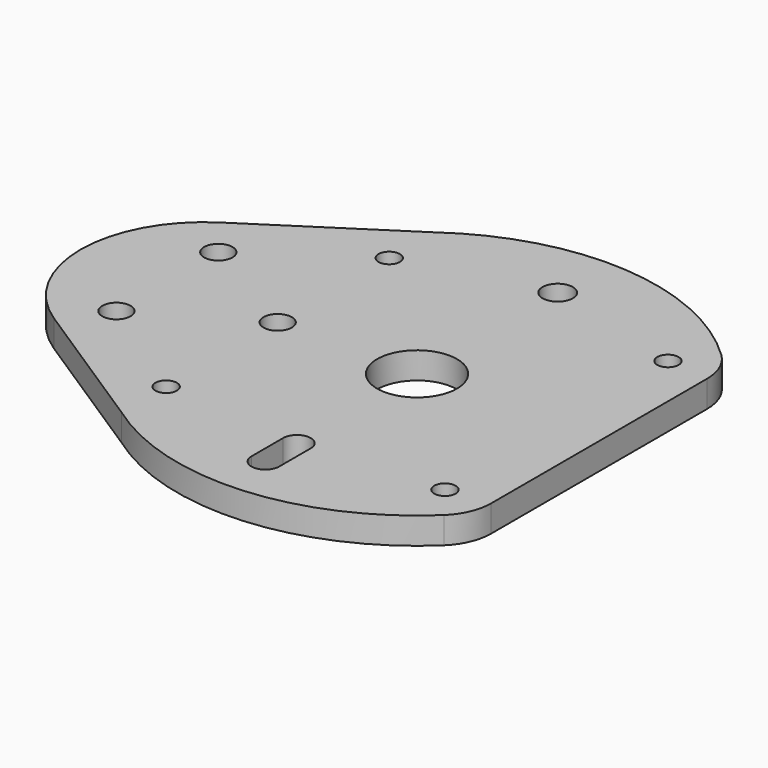
from build123d import *

# Parameters (mm, degrees)
F0_R     = 2.5527
F0_R_2   = 3.3782
F0_R_3   = 9.525
F0_R_4   = 3.6195
F1_DEPTH = 6.35


with BuildPart() as f1:
    # F0 (on Top) → F1 (new body)
    with BuildSketch(Plane.XY):
        with BuildLine():
            Line((64.675958, -18.045301), (64.675958, 32.157639))
            ThreePointArc((64.675958, 32.157639), (63.651569, 37.154649), (60.743657, 41.345536))
            ThreePointArc((60.743657, 41.345536), (25.330522, 57.006918), (-11.937938, 46.498306))
            Line((-11.937938, 46.498306), (-45.503453, 24.715648))
            ThreePointArc((-45.503453, 24.715648), (-58.928, 0), (-45.503453, -24.715648))
            Line((-45.503453, -24.715648), (-11.937938, -46.498306))
            ThreePointArc((-11.937938, -46.498306), (25.330522, -57.006918), (60.743657, -41.345536))
            ThreePointArc((60.743657, -41.345536), (63.651569, -37.154649), (64.675958, -32.157639))
            Line((64.675958, -32.157639), (64.675958, -18.045301))
        make_face()
        with Locations((-11.937938, -33.226948)):
            Circle(F0_R, mode=Mode.SUBTRACT)
        with Locations((-38.227, -15.177961)):
            Circle(F0_R_2, mode=Mode.SUBTRACT)
        with BuildLine():
            Line((17.98701, -45.218599), (17.98701, -35.788997))
            ThreePointArc((17.98701, -35.788997), (21.28901, -32.486997), (24.59101, -35.788997))
            Line((24.59101, -35.788997), (24.59101, -45.218599))
            ThreePointArc((24.59101, -45.218599), (21.28901, -48.520599), (17.98701, -45.218599))
        make_face(mode=Mode.SUBTRACT)
        with Locations((54.515958, -33.226948)):
            Circle(F0_R, mode=Mode.SUBTRACT)
        with Locations((-38.227, 15.177961)):
            Circle(F0_R_2, mode=Mode.SUBTRACT)
        with Locations((-11.938, 0)):
            Circle(F0_R_2, mode=Mode.SUBTRACT)
        with Locations((-11.937938, 33.226948)):
            Circle(F0_R, mode=Mode.SUBTRACT)
        with Locations((21.28901, 0)):
            Circle(F0_R_3, mode=Mode.SUBTRACT)
        with Locations((21.28901, 41.91)):
            Circle(F0_R_4, mode=Mode.SUBTRACT)
        with Locations((54.515958, 33.226948)):
            Circle(F0_R, mode=Mode.SUBTRACT)
    extrude(amount=-F1_DEPTH)


solid = f1.part
